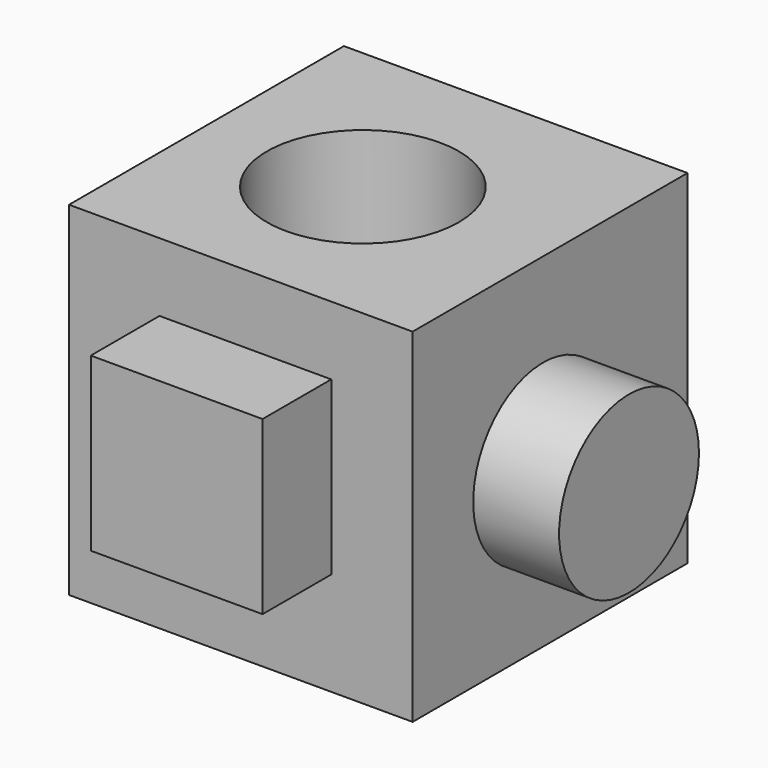
from build123d import *

# Parameters (mm, degrees)
F0_W     = 50.8
F0_H     = 50.8
F1_DEPTH = 50.8
F2_W     = 25.4
F2_H     = 25.4
F3_DEPTH = 12.7
F4_R     = 12.922989
F5_DEPTH = 12.7
F6_R     = 14.193725
F7_DEPTH = 50.8


with BuildPart() as f1:
    # F0 (on Front) → F1 (new body)
    with BuildSketch(Plane.XZ):
        with Locations((9.258268, -3.338678)):
            Rectangle(F0_W, F0_H)
    extrude(amount=F1_DEPTH)

    # F2 (on face) → F3 (join)
    with BuildSketch(Plane.XZ.offset(50.8)):
        with Locations((9.928127, -0.762303)):
            Rectangle(F2_W, F2_H)
    extrude(amount=F3_DEPTH)

    # F4 (on face) → F5 (join)
    with BuildSketch(Plane.YZ.offset(34.658268)):
        with Locations((-26.678886, -4.678389)):
            Circle(F4_R)
    extrude(amount=F5_DEPTH)

    # F6 (on face) → F7 (cut)
    with BuildSketch(Plane.XY.offset(22.061322)):
        with Locations((7.542709, -26.106022)):
            Circle(F6_R)
    extrude(amount=-F7_DEPTH, mode=Mode.SUBTRACT)


solid = f1.part
